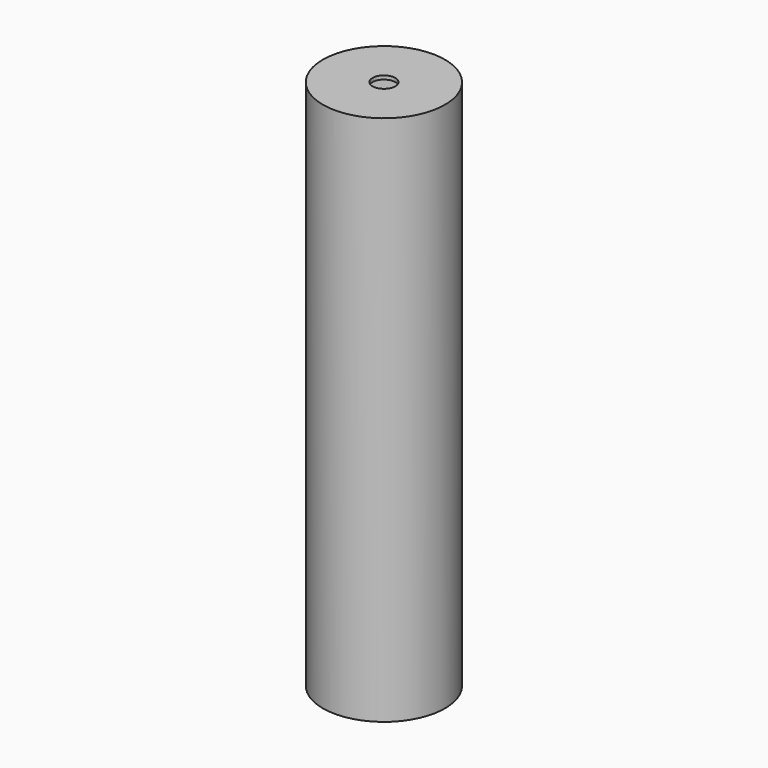
from build123d import *

# Parameters (mm, degrees)
F3_DEPTH      = 25
F3_DEPTH_BACK = 25
F7_R          = 3.75
F8_DEPTH      = 175.008284


with BuildPart() as f3:
    # F1 (on Front) → F3 (new body, two sides)
    with BuildSketch(Plane.XZ) as f3_sk:
        Polygon((-13.689034, 164.416686), (-18.182479, 170.359462), (-18.182479, 166.913599), (-14.472469, 162.748992), (-8.156137, 158.776864), (5.172722, 144.838229), (-4.562378, 133.733749), (-6.996153, 125.563219), (-12.993669, 118.435733), (-18.100433, 108.785093), (-18.182479, 104.653799), (-12.05458, 117.461517), (-6.668613, 123.716192), (3.25861, 104.569836), (10.598217, 100.251484), (3.565824, 93.206773), (-7.237375, 74.845315), (-18.281374, 68.406361), (-18.237878, 66.536016), (-6.20943, 73.651383), (-4.18945, 77.084604), (8.558222, 65.844081), (18.144256, 51.864788), (18.144256, 54.47248), (9.574368, 66.883489), (-3.439697, 78.358909), (4.734092, 92.251338), (11.93507, 99.464929), (18.187713, 95.84786), (18.187713, 97.673245), (4.161306, 105.989113), (-5.645856, 124.90391), (-3.268425, 132.966489), (6.69481, 144.126818), (13.16941, 141.100645), (18.144252, 131.225541), (18.144252, 135.615155), (14.830102, 142.302305), (6.104447, 146.795377), (-7.517676, 160.505265), (4.814246, 169.316471), (7.670024, 174.035177), (5.975025, 174.078628), (3.461061, 170.081015), (-8.945923, 161.410491), align=None)
    extrude(amount=F3_DEPTH)
    extrude(f3_sk.sketch, amount=-F3_DEPTH_BACK)

    # F4 (on Front) → F5 (revolve, cut)
    with BuildSketch(Plane.XZ):
        Polygon((50.79839, 174.967825), (17.925017, 175.093472), (17.925017, -3.259191), (50.79839, -3.259191), align=None)
    revolve(axis=Axis((0, 0, 87.499648), (0, 0, 1)), mode=Mode.SUBTRACT)

    # F2 (on Front) → F6 (revolve)
    with BuildSketch(Plane.XZ):
        Polygon((-3.515409, 175.007284), (-20.104863, 174.987718), (-20.104863, 0), (-9.95, 0), (-9.95, 25.057623), (-15.821613, 33.821163), (-15.821613, 71.417056), (-17.904863, 100.988127), (-17.904863, 173.787653), (-3.515409, 173.787653), align=None)
    revolve(axis=Axis((0, 0, 12.804373), (0, 0, 1)))

    # F7 (on face) → F8 (cut, through all)
    with BuildSketch(Plane(origin=(0, 0, 0), x_dir=(1, 0, 0), z_dir=(0, 0, -1))):
        Circle(F7_R)
    extrude(amount=-F8_DEPTH, mode=Mode.SUBTRACT)


solid = f3.part
